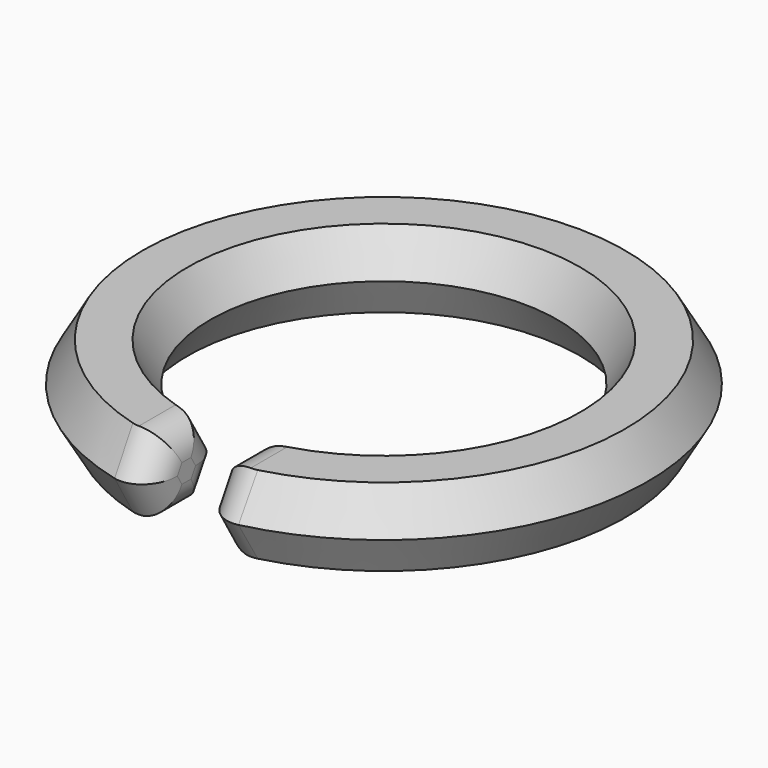
from build123d import *

# Parameters (mm, degrees)
F2_W     = 4.604009
F2_H     = 13.256372
F3_DEPTH = 12.7
F4_R     = 2.54


with BuildPart() as f1:
    # F0 (on Front) → F1 (revolve)
    with BuildSketch(Plane.XZ):
        Polygon((-20.773262, -3.358084), (-16.895681, -3.358084), (-14.95689, 0), (-16.895681, 3.358084), (-20.773262, 3.358084), (-22.712053, 0), align=None)
    revolve(axis=Axis((0, 0, 8.760218), (0, 0, -1)))

    # F2 (on Top) → F3 (cut, symmetric)
    with BuildSketch(Plane.XY):
        with Locations((-0.165461, -17.94427)):
            Rectangle(F2_W, F2_H)
    extrude(amount=F3_DEPTH, both=True, mode=Mode.SUBTRACT)

    # F4
    f4_edges = [f1.edges().sort_by_distance(p)[0] for p in [
        (2.136543, -18.711573, -3.358084),
        (2.136543, -21.637376, -1.679134),
        (2.136543, -21.637376, 1.679134),
        (2.136543, -18.711573, 3.358084),
        (2.136543, -15.782185, 1.678804),
        (2.136543, -15.782185, -1.678804),
        (-2.467466, -18.670366, -3.358084),
        (-2.467466, -15.733794, -1.678721),
        (-2.467466, -15.733794, 1.678721),
        (-2.467466, -18.670366, 3.358084),
        (-2.467466, -21.602122, 1.679166),
        (-2.467466, -21.602122, -1.679166),
    ]]
    fillet(f4_edges, radius=F4_R)


solid = f1.part
